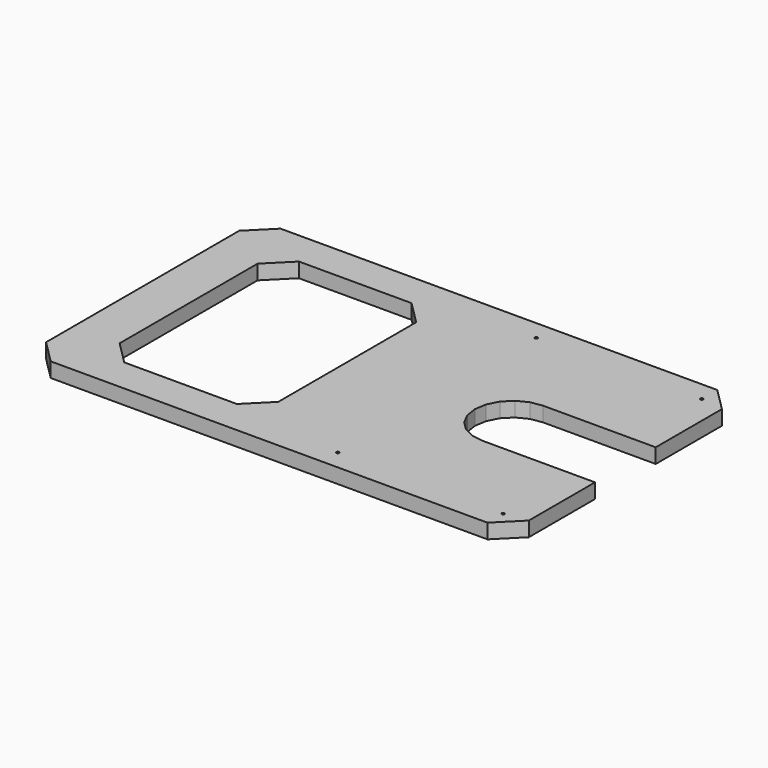
from build123d import *

# Parameters (mm, degrees)
F0_W     = 210
F0_H     = 125
F1_DEPTH = 6.4
F3_DEPTH = 25
F5_DEPTH = 6.4
F6_SIZE  = 10
F7_W     = 69
F7_H     = 95
F8_DEPTH = 6.401
F9_SIZE  = 10


with BuildPart() as f1:
    # F0 (on Top) → F1 (new body)
    with BuildSketch(Plane.XY):
        Rectangle(F0_W, F0_H)
    extrude(amount=F1_DEPTH)

    # F2 (on face) → F3 (cut)
    with BuildSketch(Plane.XY.offset(6.4)):
        Polygon((105, 16.5), (56, 16.5), (50.90122, 15.692433), (46.301543, 13.34878), (42.65122, 9.698457), (40.307567, 5.09878), (39.5, 0), (40.307567, -5.09878), (42.65122, -9.698457), (46.301543, -13.34878), (50.90122, -15.692433), (56, -16.5), (105, -16.5), align=None)
    extrude(amount=-F3_DEPTH, mode=Mode.SUBTRACT)

    # F4 (on Top) → F5 (cut, through all)
    with BuildSketch(Plane.XY):
        Polygon((94.661921, 53.473939), (95, 53.37467), (95.338079, 53.473939), (95.56882, 53.740228), (95.618965, 54.088994), (95.472593, 54.409504), (95.176176, 54.6), (94.823824, 54.6), (94.527407, 54.409504), (94.381035, 54.088994), (94.43118, 53.740228), align=None)
        Polygon((95.472593, -54.409504), (95.618965, -54.088994), (95.56882, -53.740228), (95.338079, -53.473939), (95, -53.37467), (94.661921, -53.473939), (94.43118, -53.740228), (94.381035, -54.088994), (94.527407, -54.409504), (94.823824, -54.6), (95.176176, -54.6), align=None)
        Polygon((23.37082, 53.48961), (23.6, 53.805048), (23.6, 54.194952), (23.37082, 54.51039), (23, 54.630877), (22.62918, 54.51039), (22.4, 54.194952), (22.4, 53.805048), (22.62918, 53.48961), (23, 53.369123), align=None)
        Polygon((22.62918, -53.48961), (22.4, -53.805048), (22.4, -54.194952), (22.62918, -54.51039), (23, -54.630877), (23.37082, -54.51039), (23.6, -54.194952), (23.6, -53.805048), (23.37082, -53.48961), (23, -53.369123), align=None)
    extrude(amount=F5_DEPTH, mode=Mode.SUBTRACT)

    # F6
    f6_edges = [f1.edges().sort_by_distance(p)[0] for p in [
        (-105, 62.5, 3.2),
        (105, 62.5, 3.2),
        (105, -62.5, 3.2),
        (-105, -62.5, 3.2),
    ]]
    chamfer(f6_edges, length=F6_SIZE)

    # F7 (on face) → F8 (cut, through all)
    with BuildSketch(Plane(origin=(0, 0, 0), x_dir=(1, 0, 0), z_dir=(0, 0, -1))):
        with Locations((-50.5, 0)):
            Rectangle(F7_W, F7_H)
    extrude(amount=-F8_DEPTH, mode=Mode.SUBTRACT)

    # F9
    f9_edges = [f1.edges().sort_by_distance(p)[0] for p in [
        (-85, 47.5, 3.2),
        (-16, 47.5, 3.2),
        (-16, -47.5, 3.2),
        (-85, -47.5, 3.2),
    ]]
    chamfer(f9_edges, length=F9_SIZE)


solid = f1.part
